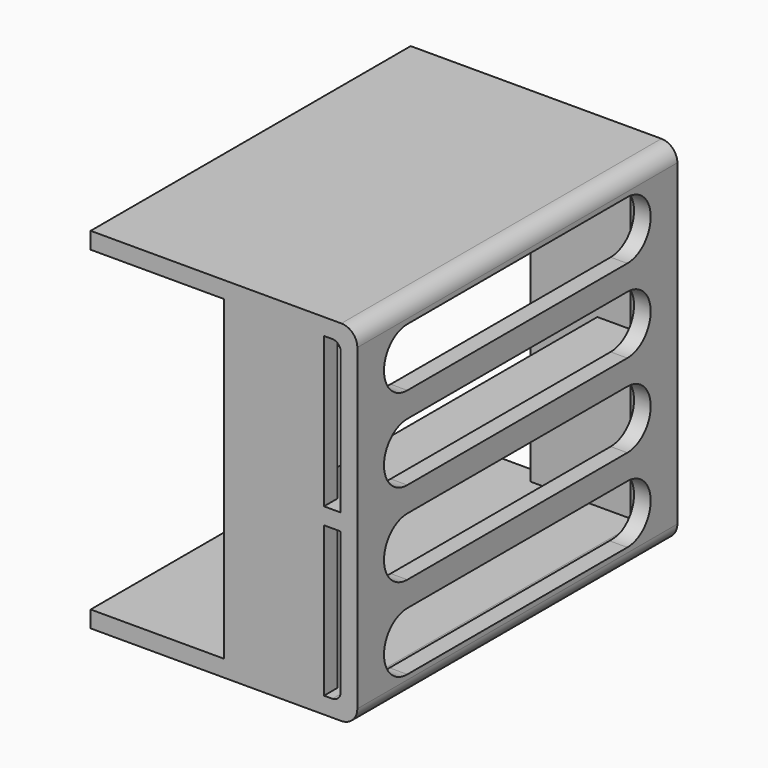
from build123d import *

# Parameters (mm, degrees)
PAD7411_DEPTH   = 38.1
PAD7409_DEPTH   = 3.175
SKETCH8433_W    = 76.2
SKETCH8433_H    = 3.175
PAD7410_DEPTH   = 12.7
POCKET693_DEPTH = 50.801


with BuildPart() as part:
    # Sketch8434 → Pad7411 (new body, symmetric)
    with BuildSketch(Plane.XZ):
        with BuildLine():
            ThreePointArc((0, 30.2895), (-0.892739, 32.444761), (-3.048, 33.3375))
            Line((-3.048, 33.3375), (-50.8, 33.3375))
            Line((-50.8, 33.3375), (-50.8, 30.1625))
            Line((-50.8, 30.1625), (-4.7625, 30.1625))
            ThreePointArc((-3.175, 28.575), (-3.639968, 29.697532), (-4.7625, 30.1625))
            Line((-3.175, 28.575), (-3.175, -28.575))
            ThreePointArc((-4.7625, -30.1625), (-3.639968, -29.697532), (-3.175, -28.575))
            Line((-4.7625, -30.1625), (-50.8, -30.1625))
            Line((-50.8, -30.1625), (-50.8, -33.3375))
            Line((-50.8, -33.3375), (-3.048, -33.3375))
            ThreePointArc((-3.048, -33.3375), (-0.892739, -32.444761), (0, -30.2895))
            Line((0, -30.2895), (0, 30.2895))
        make_face()
    extrude(amount=PAD7411_DEPTH, both=True)

    # Sketch8432 (on DatumPlane) → Pad7409 (join)
    with BuildSketch(Plane.XZ.offset(38.1)):
        Polygon((-25.4, 33.02), (-25.4, -33.02), (-6.35, -33.02), (-6.35, -1.5875), (0, -1.5875), (0, 1.5875), (-6.35, 1.5875), (-6.35, 33.02), align=None)
    pad7409 = extrude(amount=-PAD7409_DEPTH)

    # Mirrored019: Pad7409 across XZ
    add(pad7409.mirror(Plane.XZ))

    # Sketch8433 → Pad7410 (join)
    with BuildSketch(Plane.YZ):
        Rectangle(SKETCH8433_W, SKETCH8433_H)
    extrude(amount=-PAD7410_DEPTH)

    # Sketch8435 → Pocket693 (cut, through all)
    with BuildSketch(Plane.YZ):
        with BuildLine():
            ThreePointArc((26.19375, 18.25625), (31.75, 23.8125), (26.19375, 29.36875))
            Line((26.19375, 29.36875), (-26.19375, 29.36875))
            ThreePointArc((-26.19375, 29.36875), (-31.75, 23.8125), (-26.19375, 18.25625))
            Line((-26.19375, 18.25625), (26.19375, 18.25625))
        make_face()
        with BuildLine():
            ThreePointArc((26.19375, 2.38125), (31.75, 7.9375), (26.19375, 13.49375))
            Line((26.19375, 13.49375), (-26.19375, 13.49375))
            ThreePointArc((-26.19375, 13.49375), (-31.75, 7.9375), (-26.19375, 2.38125))
            Line((-26.19375, 2.38125), (26.19375, 2.38125))
        make_face()
        with BuildLine():
            ThreePointArc((26.19375, -13.49375), (31.75, -7.9375), (26.19375, -2.38125))
            Line((26.19375, -2.38125), (-26.19375, -2.38125))
            ThreePointArc((-26.19375, -2.38125), (-31.75, -7.9375), (-26.19375, -13.49375))
            Line((-26.19375, -13.49375), (26.19375, -13.49375))
        make_face()
        with BuildLine():
            ThreePointArc((26.19375, -29.36875), (31.75, -23.8125), (26.19375, -18.25625))
            Line((26.19375, -18.25625), (-26.19375, -18.25625))
            ThreePointArc((-26.19375, -18.25625), (-31.75, -23.8125), (-26.19375, -29.36875))
            Line((-26.19375, -29.36875), (26.19375, -29.36875))
        make_face()
    extrude(amount=-POCKET693_DEPTH, mode=Mode.SUBTRACT)


solid = part.part
